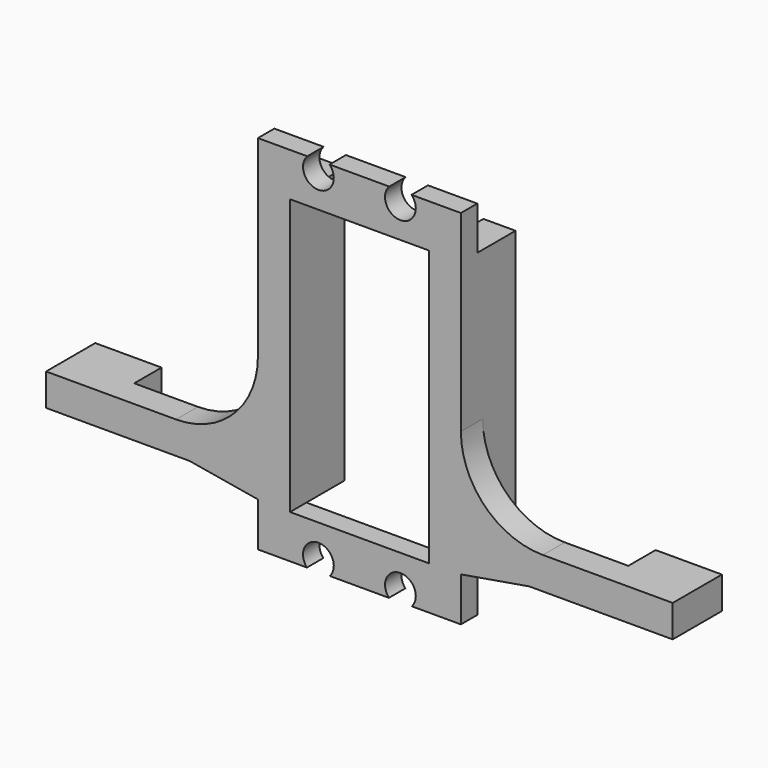
from build123d import *

# Parameters (mm, degrees)
SKETCH024_R       = 2.25
PAD009_DEPTH      = 10
SKETCH025_W       = 4.7
SKETCH025_H       = 4
PAD010_DEPTH      = 31
SKETCH026_W       = 9.7
SKETCH026_H       = 4.7
PAD011_DEPTH      = 5
SKETCH027_W       = 14.85
SKETCH027_H       = 7.35
POCKET015_DEPTH   = 7
POCKET015_FACE1_W = 3
POCKET015_FACE1_H = 14.85
POCKET016_DEPTH   = 1
POCKET016_FACE4_W = 3
POCKET016_FACE4_H = 14.85
POCKET017_DEPTH   = 1
FILLET003_R       = 12
CHAMFER001_SIZE2  = 10
CHAMFER001_SIZE   = 1.7


with BuildPart() as part:
    # Sketch024 → Pad009 (new body)
    with BuildSketch(Plane.XZ):
        Polygon((-10.15, 29.65), (-10.15, -10.65), (0, -10.65), (0, -18), (-14.85, -18), (-14.85, 37), (0, 37), (0, 29.65), align=None)
        with Locations((-6, 34.45)):
            Circle(SKETCH024_R, mode=Mode.SUBTRACT)
        with Locations((-6, -15.5)):
            Circle(SKETCH024_R, mode=Mode.SUBTRACT)
    extrude(amount=-PAD009_DEPTH)

    # Sketch025 (on Face8 of Pad009) → Pad010 (join)
    with BuildSketch(Plane(origin=(-14.85, 0, 0), x_dir=(0, 0, -1), z_dir=(-1, 0, 0))):
        with Locations((6.5, -2)):
            Rectangle(SKETCH025_W, SKETCH025_H)
    extrude(amount=PAD010_DEPTH)

    # Sketch026 (on Face7 of Pad010) → Pad011 (join)
    with BuildSketch(Plane(origin=(0, 4, 0), x_dir=(1, 0, 0), z_dir=(0, 1, 0))):
        with Locations((-41, 6.5)):
            Rectangle(SKETCH026_W, SKETCH026_H)
    extrude(amount=PAD011_DEPTH)

    # Sketch027 (on Face5 of Pad011) → Pocket015 (cut)
    with BuildSketch(Plane(origin=(0, 10, 0), x_dir=(1, 0, 0), z_dir=(0, 1, 0))):
        with Locations((-7.425, 14.325)):
            Rectangle(SKETCH027_W, SKETCH027_H)
        with Locations((-7.425, -33.325)):
            Rectangle(SKETCH027_W, SKETCH027_H)
    extrude(amount=-POCKET015_DEPTH, mode=Mode.SUBTRACT)

    # Pocket015 Face1 → Pocket016 (cut)
    with BuildSketch(Plane(origin=(-7.425, 1.5, 37), x_dir=(0, 1, 0), z_dir=(0, 0, 1))):
        Rectangle(POCKET015_FACE1_W, POCKET015_FACE1_H)
    extrude(amount=-POCKET016_DEPTH, mode=Mode.SUBTRACT)

    # Pocket016 Face4 → Pocket017 (cut)
    with BuildSketch(Plane(origin=(-7.425, 1.5, -18), x_dir=(0, -1, 0), z_dir=(0, 0, -1))):
        Rectangle(POCKET016_FACE4_W, POCKET016_FACE4_H)
    extrude(amount=-POCKET017_DEPTH, mode=Mode.SUBTRACT)

    # Fillet003
    fillet003_edges = [part.edges().sort_by_distance(p)[0] for p in [
        (-14.85, 2, -4.15),
    ]]
    fillet(fillet003_edges, radius=FILLET003_R)

    # Chamfer001
    chamfer001_edges = [part.edges().sort_by_distance(p)[0] for p in [
        (-14.85, 2, -8.85),
    ]]
    chamfer001_side = part.faces().sort_by_distance((-14.85, 5.179134, 11.284665))[0]
    chamfer(chamfer001_edges, length=CHAMFER001_SIZE, length2=CHAMFER001_SIZE2, reference=chamfer001_side)

    # Mirrored: part across YZ


with BuildPart() as part_1:
    add(part.part)
    add(part.part.mirror(Plane.YZ))


with BuildPart() as part_2:
    # Body005 placement: moved
    add(part_1.part.moved(Location((0, 13.9, 0))))


solid = part_2.part
